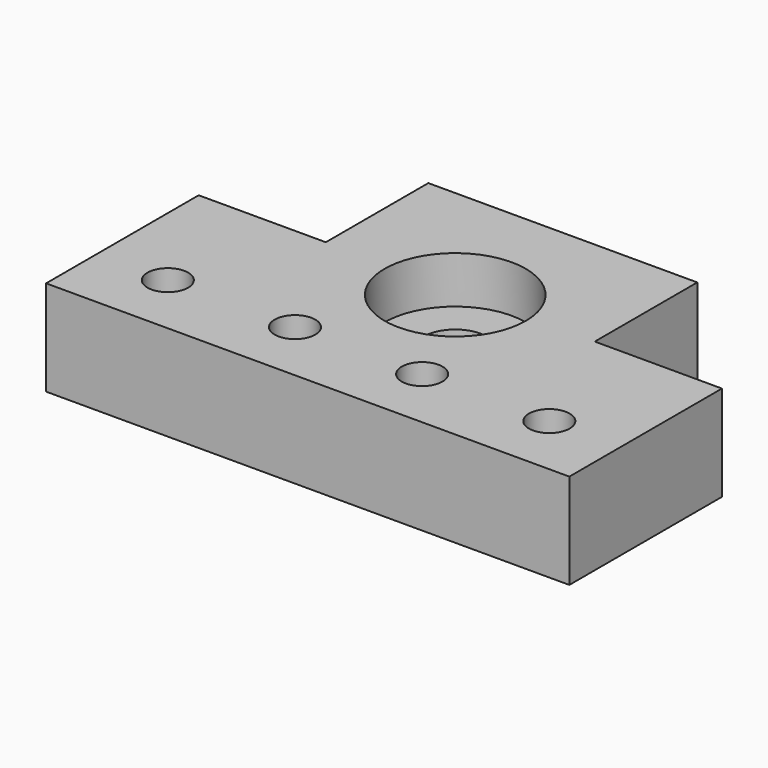
from build123d import *

# Parameters (mm, degrees)
SKETCH_R        = 5
SKETCH_R_2      = 3.2
PAD_DEPTH       = 15
SKETCH002_R     = 6.1
POCKET001_DEPTH = 4
SKETCH003_R     = 11.1
POCKET_DEPTH    = 7.4


with BuildPart() as part:
    # Sketch → Pad (new body)
    with BuildSketch(Plane.XY):
        Polygon((20, 30), (20, 50.15), (62.3, 50.15), (62.3, 30), (82.3, 30), (82.3, 0), (0, 0), (0, 30), align=None)
        with Locations((41.15, 29)):
            Circle(SKETCH_R, mode=Mode.SUBTRACT)
        with Locations((11.15, 10)):
            Circle(SKETCH_R_2, mode=Mode.SUBTRACT)
        with Locations((31.15, 10)):
            Circle(SKETCH_R_2, mode=Mode.SUBTRACT)
        with Locations((51.15, 10)):
            Circle(SKETCH_R_2, mode=Mode.SUBTRACT)
        with Locations((71.15, 10)):
            Circle(SKETCH_R_2, mode=Mode.SUBTRACT)
    extrude(amount=PAD_DEPTH)

    # Sketch002 → Pocket001 (cut)
    with BuildSketch(Plane(origin=(0, 0, 0), x_dir=(1, 0, 0), z_dir=(0, 0, -1))):
        with Locations((11.15, -10)):
            Circle(SKETCH002_R)
        with Locations((31.15, -10)):
            Circle(SKETCH002_R)
        with Locations((51.15, -10)):
            Circle(SKETCH002_R)
        with Locations((71.15, -10)):
            Circle(SKETCH002_R)
    extrude(amount=-POCKET001_DEPTH, mode=Mode.SUBTRACT)

    # Sketch003 (on Face5 of Pocket001) → Pocket (cut)
    with BuildSketch(Plane.XY.offset(15)):
        with Locations((41.15, 29)):
            Circle(SKETCH003_R)
    extrude(amount=-POCKET_DEPTH, mode=Mode.SUBTRACT)


solid = part.part
